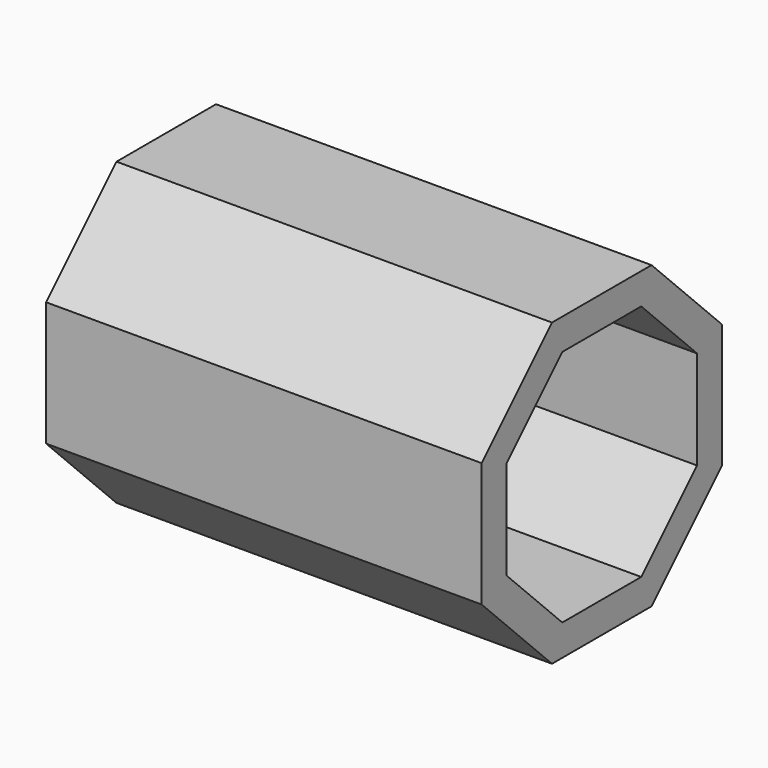
from build123d import *

# Parameters (mm, degrees)
F1_DEPTH = 177.8
F2_T     = -12.7


with BuildPart() as f1:
    # F0 (on Right) → F1 (new body)
    with BuildSketch(Plane.YZ):
        Polygon((61.321024, -25.4), (61.321024, 25.4), (25.4, 61.321024), (-25.4, 61.321024), (-61.321024, 25.4), (-61.321024, -25.4), (-25.4, -61.321024), (25.4, -61.321024), align=None)
    extrude(amount=F1_DEPTH)

    # F2
    f2_openings = [f1.faces().sort_by_distance(p)[0] for p in [
        (177.8, 0, 0),
    ]]
    offset(amount=F2_T, openings=f2_openings)


solid = f1.part
